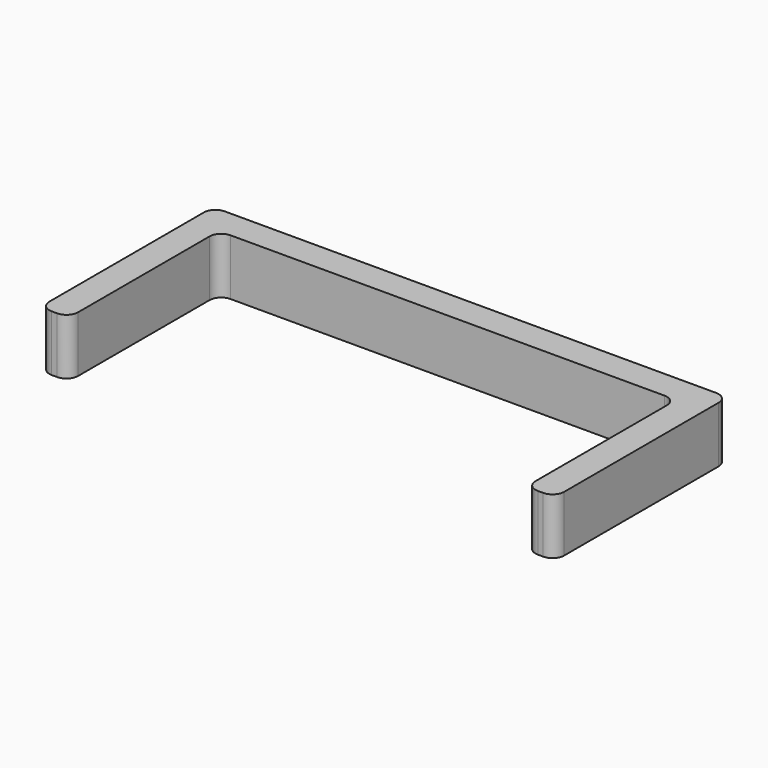
from build123d import *

# Parameters (mm, degrees)
F1_DEPTH = 20


with BuildPart() as f1:
    # F0 (on Top) → F1 (new body)
    with BuildSketch(Plane.XY):
        with BuildLine():
            ThreePointArc((-115.323693, 48.625361), (-114.101547, 51.57588), (-111.151028, 52.798025))
            Line((-111.151028, 52.798025), (43.541614, 52.798025))
            ThreePointArc((43.541614, 52.798025), (46.492133, 51.57588), (47.714278, 48.625361))
            Line((47.714278, 48.625361), (47.714278, -9.932133))
            ThreePointArc((47.714278, -9.932133), (48.936423, -12.882652), (51.886943, -14.104798))
            Line((51.886943, -14.104798), (53.809348, -14.104798))
            ThreePointArc((53.809348, -14.104798), (56.759867, -12.882652), (57.982013, -9.932133))
            Line((57.982013, -9.932133), (57.982013, 58.893095))
            ThreePointArc((57.982013, 58.893095), (56.759867, 61.843615), (53.809348, 63.06576))
            Line((53.809348, 63.06576), (-121.418763, 63.06576))
            ThreePointArc((-121.418763, 63.06576), (-124.369282, 61.843615), (-125.591427, 58.893095))
            Line((-125.591427, 58.893095), (-125.591427, -9.932133))
            ThreePointArc((-125.591427, -9.932133), (-124.369282, -12.882652), (-121.418763, -14.104798))
            Line((-121.418763, -14.104798), (-119.496357, -14.104798))
            ThreePointArc((-119.496357, -14.104798), (-116.545838, -12.882652), (-115.323693, -9.932133))
            Line((-115.323693, -9.932133), (-115.323693, 48.625361))
        make_face()
    extrude(amount=F1_DEPTH)


solid = f1.part
